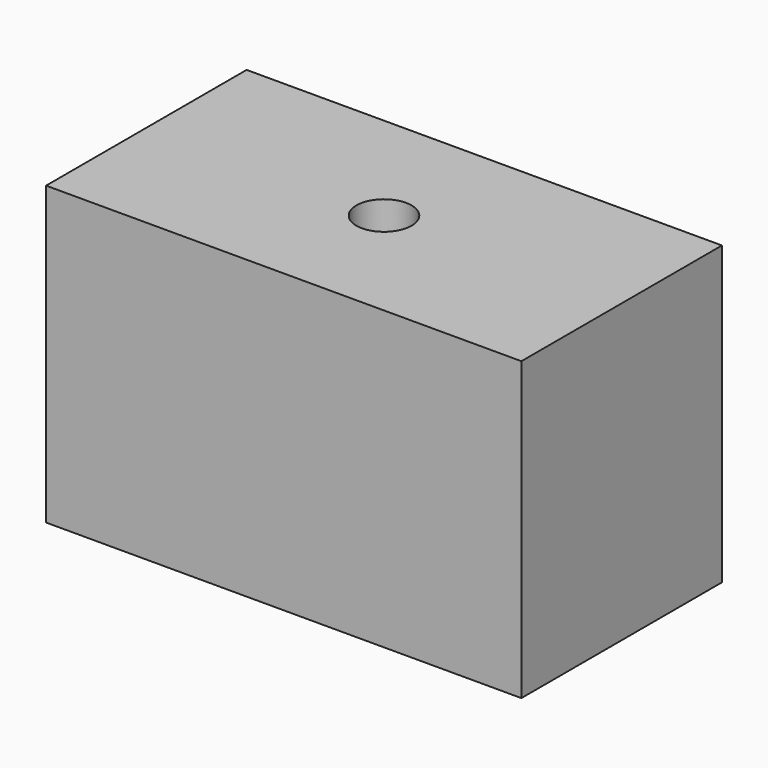
from build123d import *

# Parameters (mm, degrees)
F0_W     = 47.4027246237
F0_H     = 29.581496492
F1_DEPTH = 25
F3_D     = 5.5
F3_DEPTH = 12
F3_TIP   = 1.6523667023
F5_D     = 5.5
F5_DEPTH = 12
F5_TIP   = 1.6523667023


with BuildPart() as f1:
    # F0 (on Front) → F1 (new body)
    with BuildSketch(Plane.XZ):
        with Locations((23.7013623118, 14.790748246)):
            Rectangle(F0_W, F0_H)
    extrude(amount=F1_DEPTH)

    # F3
    with Locations(Plane.XY.offset(29.581496492)):
        with Locations((23.7013623118, -12.5)):
            Hole(F3_D / 2, depth=F3_DEPTH)
            with Locations((0, 0, -(F3_DEPTH + F3_TIP / 2))):  # 118° drill point
                Cone(0, F3_D / 2, F3_TIP, mode=Mode.SUBTRACT)

    # F5
    with Locations(Plane(origin=(0, 0, 0), x_dir=(-1, 0, 0), z_dir=(0, 1, 0))):
        with Locations((-39.530955255, 23.4460607171), (-30.8633740127, 23.4530330807), (-22.1957927704, 23.4600054443), (-13.5282115281, 23.4669778079), (-4.8606302857, 23.4739501715), (-39.530955255, 5.6460607171), (-39.530955255, 14.5460607171), (-4.8606302857, 5.6739501715), (-30.8633740127, 14.5530330807), (-4.8606302857, 14.5739501715), (-30.8633740127, 5.6530330807), (-22.1957927704, 14.5600054443), (-13.5282115281, 14.5669778079), (-22.1957927704, 5.6600054443), (-13.5282115281, 5.6669778079)):
            Hole(F5_D / 2, depth=F5_DEPTH)
            with Locations((0, 0, -(F5_DEPTH + F5_TIP / 2))):  # 118° drill point
                Cone(0, F5_D / 2, F5_TIP, mode=Mode.SUBTRACT)


solid = f1.part
